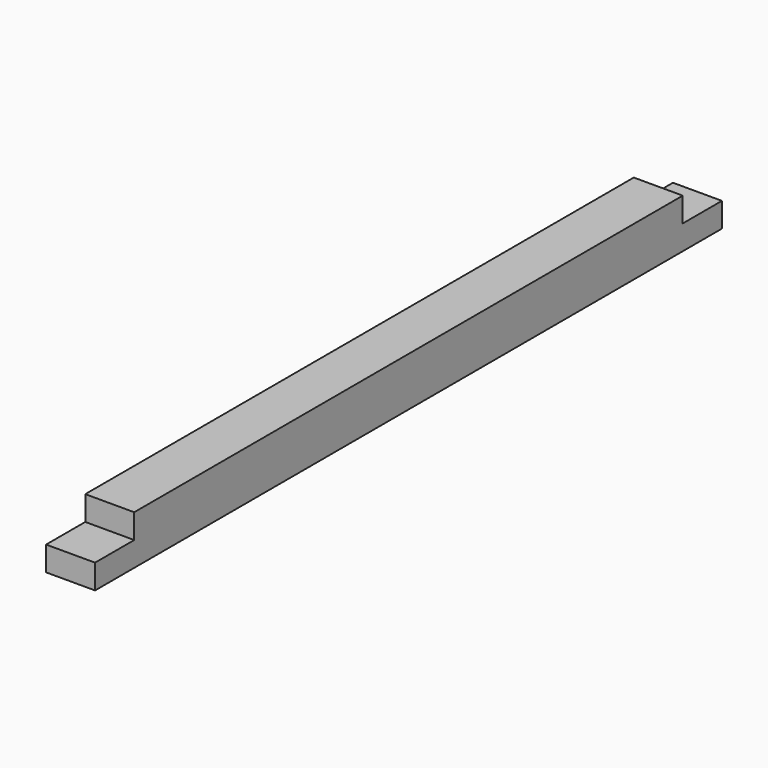
from build123d import *

# Parameters (mm, degrees)
F0_W     = 44.45
F0_H     = 44.45
F1_DEPTH = 711.2
F2_W     = 44.45
F2_H     = 44.45
F3_DEPTH = 22.225


with BuildPart() as f1:
    # F0 (on Front) → F1 (new body)
    with BuildSketch(Plane.XZ):
        with Locations((22.225, 22.225)):
            Rectangle(F0_W, F0_H)
    extrude(amount=F1_DEPTH)

    # F2 (on face) → F3 (cut)
    with BuildSketch(Plane.XY.offset(44.45)):
        with Locations((22.225, -688.975)):
            Rectangle(F2_W, F2_H)
        with Locations((22.225, -22.225)):
            Rectangle(F2_W, F2_H)
    extrude(amount=-F3_DEPTH, mode=Mode.SUBTRACT)


solid = f1.part
